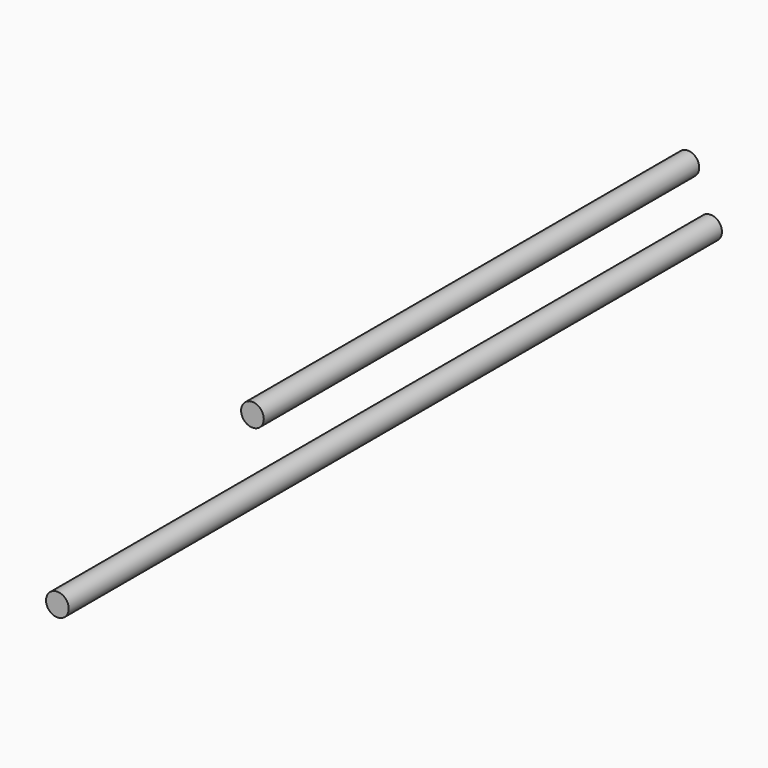
from build123d import *

# Parameters (mm, degrees)
F0_R     = 1.5875
F1_DEPTH = 76.2
F2_R     = 1.5875
F3_DEPTH = 114.3


with BuildPart() as f1:
    # F0 (on Front) → F1 (new body)
    with BuildSketch(Plane.XZ):
        with Locations((1.5875, 55.896606)):
            Circle(F0_R)
    extrude(amount=F1_DEPTH)


with BuildPart() as f3:
    # F2 (on Front) → F3 (new body)
    with BuildSketch(Plane.XZ):
        with Locations((4.7625, 49.027722)):
            Circle(F2_R)
    extrude(amount=F3_DEPTH)


solid = Compound([f1.part, f3.part])
